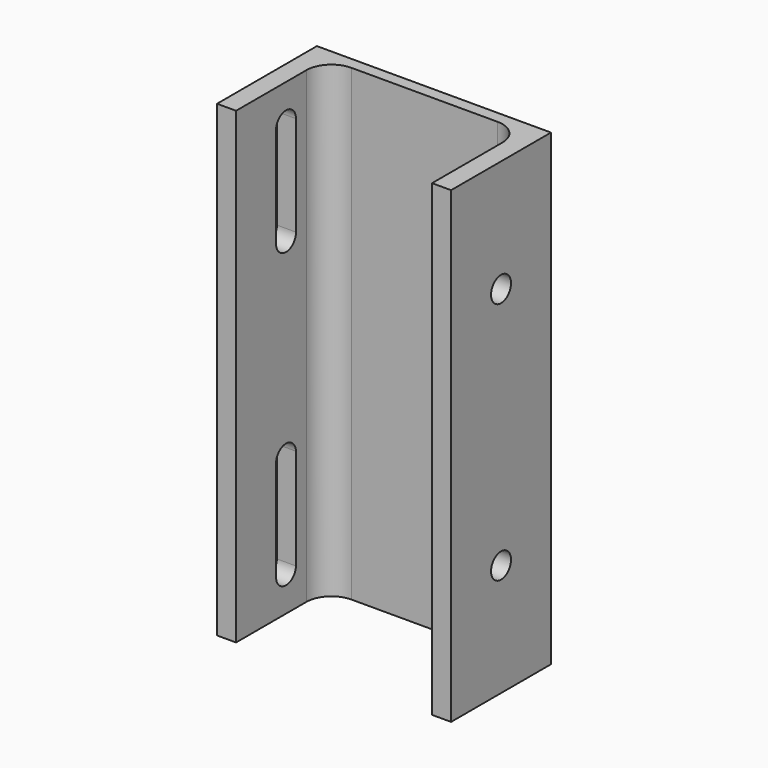
from build123d import *

# Parameters (mm, degrees)
F1_DEPTH = 150
F3_D     = 8
F3_DEPTH = 7
F3_TIP   = 2.4034424761
F5_DEPTH = 6.1


with BuildPart() as f1:
    # F0 (on Top) → F1 (new body)
    with BuildSketch(Plane.XY):
        with BuildLine():
            Line((37.5, 0), (-37.5, 0))
            Line((-37.5, 0), (-37.5, -40))
            Line((-37.5, -40), (-31.4, -40))
            Line((-31.4, -40), (-31.4, -11.8))
            ThreePointArc((-31.4, -11.8), (-29.0568542495, -6.1431457505), (-23.4, -3.8))
            Line((-23.4, -3.8), (23.4, -3.8))
            ThreePointArc((23.4, -3.8), (29.0568542495, -6.1431457505), (31.4, -11.8))
            Line((31.4, -11.8), (31.4, -40))
            Line((31.4, -40), (37.5, -40))
            Line((37.5, -40), (37.5, 0))
        make_face()
    extrude(amount=F1_DEPTH)

    # F3
    with Locations(Plane.YZ.offset(37.5)):
        with Locations((-20, 114), (-20, 36)):
            Hole(F3_D / 2, depth=F3_DEPTH)
            with Locations((0, 0, -(F3_DEPTH + F3_TIP / 2))):  # 118° drill point
                Cone(0, F3_D / 2, F3_TIP, mode=Mode.SUBTRACT)

    # F4 (on face) → F5 (cut, through all)
    with BuildSketch(Plane(origin=(-37.5, 0, 0), x_dir=(0, -1, 0), z_dir=(-1, 0, 0))):
        with BuildLine():
            Line((24, 106), (24, 138))
            ThreePointArc((24, 138), (20, 142), (16, 138))
            Line((16, 138), (16, 106))
            ThreePointArc((16, 106), (20, 110), (24, 106))
        make_face()
        with BuildLine():
            ThreePointArc((16, 106), (20, 102), (24, 106))
            ThreePointArc((24, 106), (20, 110), (16, 106))
        make_face()
        with BuildLine():
            ThreePointArc((16.0041883178, 43.817), (20.0915239614, 40.0010472165), (24, 44))
            ThreePointArc((24, 44), (20.0915239614, 47.9989527835), (16.0041883178, 44.183))
            Line((16.0041883178, 44.183), (16.0041883178, 43.817))
        make_face()
        with BuildLine():
            Line((16.0041883178, 12.183), (16.0041883178, 11.817))
            ThreePointArc((16.0041883178, 11.817), (20.0915239614, 8.0010472165), (24, 12))
            ThreePointArc((24, 12), (20.0915239614, 15.9989527835), (16.0041883178, 12.183))
        make_face()
        with BuildLine():
            ThreePointArc((16.0041883178, 12.183), (20.0915239614, 15.9989527835), (24, 12))
            Line((24, 12), (24, 44))
            ThreePointArc((24, 44), (20.0915239614, 40.0010472165), (16.0041883178, 43.817))
            Line((16.0041883178, 43.817), (16.0041883178, 12.183))
        make_face()
    extrude(amount=-F5_DEPTH, mode=Mode.SUBTRACT)


solid = f1.part
